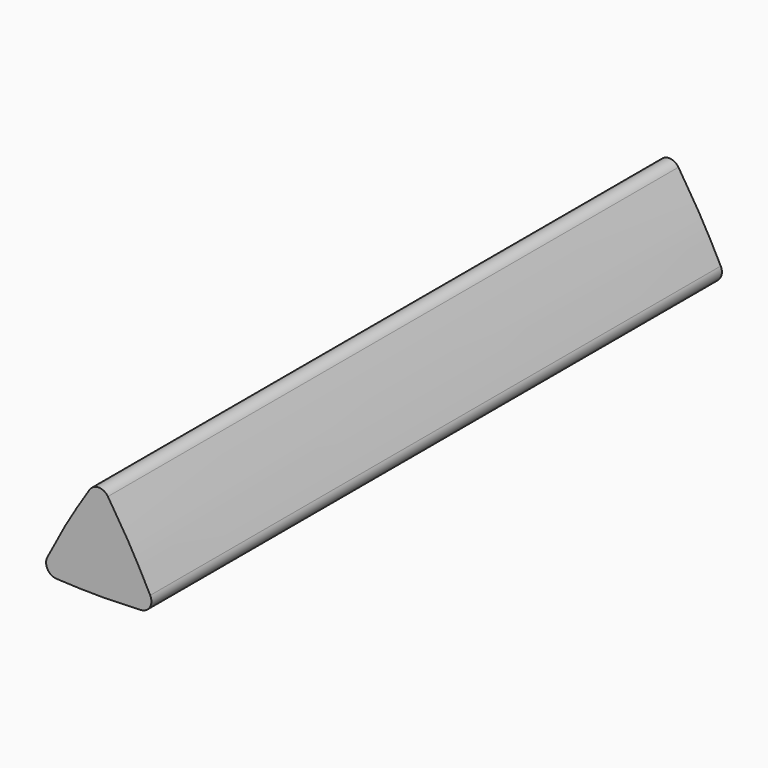
from build123d import *

# Parameters (mm, degrees)
F1_DEPTH = 32.6


with BuildPart() as f1:
    # F0 (on Front) → F1 (new body)
    with BuildSketch(Plane.XZ):
        with BuildLine():
            add(Edge.make_bspline(
                [(0.347833, 0.685448), (0.641423, 1.259751), (1.241216, 2.401075), (1.929735, 3.491173), (2.280301, 4.032581)],
                knots=[0.768058, 0.768058, 0.768058, 0.768058, 2.701851, 4.635644, 4.635644, 4.635644, 4.635644], degree=3))
            ThreePointArc((0.347833, 0.685448), (0.360019, 0.207857), (0.767532, -0.041492))
            add(Edge.make_bspline(
                [(4.632468, -0.041492), (3.988312, -0.074387), (2.7, -0.125613), (1.411688, -0.074387), (0.767532, -0.041492)],
                knots=[0.768058, 0.768058, 0.768058, 0.768058, 2.701851, 4.635644, 4.635644, 4.635644, 4.635644], degree=3))
            ThreePointArc((4.632468, -0.041492), (5.039981, 0.207857), (5.052167, 0.685448))
            add(Edge.make_bspline(
                [(3.119699, 4.032581), (3.470265, 3.491173), (4.158784, 2.401075), (4.758577, 1.259751), (5.052167, 0.685448)],
                knots=[0.768058, 0.768058, 0.768058, 0.768058, 2.701851, 4.635644, 4.635644, 4.635644, 4.635644], degree=3))
            ThreePointArc((3.119699, 4.032581), (2.7, 4.260823), (2.280301, 4.032581))
        make_face()
    extrude(amount=F1_DEPTH)


solid = f1.part
